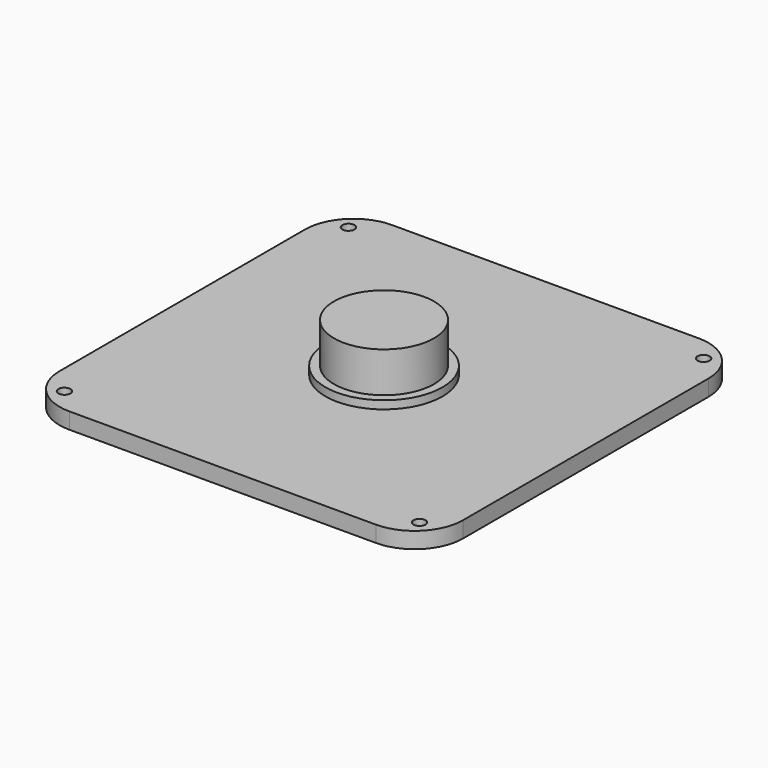
from build123d import *

# Parameters (mm, degrees)
F0_R     = 1.5
F0_R_2   = 14.5
F1_DEPTH = 4
F2_R     = 12
F0_R_3   = 12.4
F3_DEPTH = 6
F4_DEPTH = 16


with BuildPart() as f1:
    # F0 (on Top) → F1 (new body)
    with BuildSketch(Plane.XY):
        with BuildLine():
            Line((-50, 40.1261364576), (-50, -40.1261364576))
            ThreePointArc((-50, -40.1261364576), (-48.5323223277, -39.658202653), (-47, -39.5))
            Line((-47, -39.5), (-47, 39.5))
            ThreePointArc((-47, 39.5), (-48.5323223277, 39.658202653), (-50, 40.1261364576))
        make_face()
        with BuildLine():
            Line((-50, -50), (-40.1261364576, -50))
            ThreePointArc((-40.1261364576, -50), (-39.658202653, -48.5323223277), (-39.5, -47))
            Line((-39.5, -47), (-47, -47))
            Line((-47, -47), (-47, -39.5))
            ThreePointArc((-47, -39.5), (-48.5323223277, -39.658202653), (-50, -40.1261364576))
            Line((-50, -40.1261364576), (-50, -50))
        make_face()
        with BuildLine():
            Line((-47, -47), (-39.5, -47))
            ThreePointArc((-39.5, -47), (-41.6966991411, -41.6966991411), (-47, -39.5))
            Line((-47, -39.5), (-47, -47))
        make_face()
        with Locations((-44, -44)):
            Circle(F0_R, mode=Mode.SUBTRACT)
        with BuildLine():
            Line((-40.1261364576, -50), (40.1261364576, -50))
            ThreePointArc((40.1261364576, -50), (39.658202653, -48.5323223277), (39.5, -47))
            Line((39.5, -47), (-39.5, -47))
            ThreePointArc((-39.5, -47), (-39.658202653, -48.5323223277), (-40.1261364576, -50))
        make_face()
        with BuildLine():
            Line((40.1261364576, -50), (50, -50))
            Line((50, -50), (50, -40.1261364576))
            ThreePointArc((50, -40.1261364576), (48.5323223277, -39.658202653), (47, -39.5))
            Line((47, -39.5), (47, -47))
            Line((47, -47), (39.5, -47))
            ThreePointArc((39.5, -47), (39.658202653, -48.5323223277), (40.1261364576, -50))
        make_face()
        with BuildLine():
            ThreePointArc((47, -39.5), (41.6966991411, -41.6966991411), (39.5, -47))
            Line((39.5, -47), (47, -47))
            Line((47, -47), (47, -39.5))
        make_face()
        with Locations((44, -44)):
            Circle(F0_R, mode=Mode.SUBTRACT)
        with BuildLine():
            ThreePointArc((47, -39.5), (48.5323223277, -39.658202653), (50, -40.1261364576))
            Line((50, -40.1261364576), (50, 40.1261364576))
            ThreePointArc((50, 40.1261364576), (48.5323223277, 39.658202653), (47, 39.5))
            Line((47, 39.5), (47, -39.5))
        make_face()
        with BuildLine():
            ThreePointArc((47, 39.5), (48.5323223277, 39.658202653), (50, 40.1261364576))
            Line((50, 40.1261364576), (50, 50))
            Line((50, 50), (40.1261364576, 50))
            ThreePointArc((40.1261364576, 50), (39.658202653, 48.5323223277), (39.5, 47))
            Line((39.5, 47), (47, 47))
            Line((47, 47), (47, 39.5))
        make_face()
        with BuildLine():
            ThreePointArc((39.5, 47), (41.6966991411, 41.6966991411), (47, 39.5))
            Line((47, 39.5), (47, 47))
            Line((47, 47), (39.5, 47))
        make_face()
        with Locations((44, 44)):
            Circle(F0_R, mode=Mode.SUBTRACT)
        with BuildLine():
            ThreePointArc((39.5, 47), (39.658202653, 48.5323223277), (40.1261364576, 50))
            Line((40.1261364576, 50), (-40.1261364576, 50))
            ThreePointArc((-40.1261364576, 50), (-39.658202653, 48.5323223277), (-39.5, 47))
            Line((-39.5, 47), (39.5, 47))
        make_face()
        with BuildLine():
            Line((-50, 50), (-50, 40.1261364576))
            ThreePointArc((-50, 40.1261364576), (-48.5323223277, 39.658202653), (-47, 39.5))
            Line((-47, 39.5), (-47, 47))
            Line((-47, 47), (-39.5, 47))
            ThreePointArc((-39.5, 47), (-39.658202653, 48.5323223277), (-40.1261364576, 50))
            Line((-40.1261364576, 50), (-50, 50))
        make_face()
        with BuildLine():
            Line((-47, 47), (-47, 39.5))
            ThreePointArc((-47, 39.5), (-41.6966991411, 41.6966991411), (-39.5, 47))
            Line((-39.5, 47), (-47, 47))
        make_face()
        with Locations((-44, 44)):
            Circle(F0_R, mode=Mode.SUBTRACT)
        with BuildLine():
            Line((-39.5, -47), (39.5, -47))
            ThreePointArc((39.5, -47), (41.6966991411, -41.6966991411), (47, -39.5))
            Line((47, -39.5), (47, 39.5))
            ThreePointArc((47, 39.5), (41.6966991411, 41.6966991411), (39.5, 47))
            Line((39.5, 47), (-39.5, 47))
            ThreePointArc((-39.5, 47), (-41.6966991411, 41.6966991411), (-47, 39.5))
            Line((-47, 39.5), (-47, -39.5))
            ThreePointArc((-47, -39.5), (-41.6966991411, -41.6966991411), (-39.5, -47))
        make_face()
        Circle(F0_R_2, mode=Mode.SUBTRACT)
    extrude(amount=F1_DEPTH)

    # F2
    f2_edges = [f1.edges().sort_by_distance(p)[0] for p in [
        (-50, 50, 2),
        (50, 50, 2),
        (50, -50, 2),
        (-50, -50, 2),
    ]]
    fillet(f2_edges, radius=F2_R)

    # F0 (on Top) → F3 (join)
    with BuildSketch(Plane.XY):
        Circle(F0_R_2)
        Circle(F0_R_3, mode=Mode.SUBTRACT)
    extrude(amount=F3_DEPTH)

    # F0 (on Top) → F4 (join)
    with BuildSketch(Plane.XY):
        Circle(F0_R_3)
    extrude(amount=F4_DEPTH)


solid = f1.part
